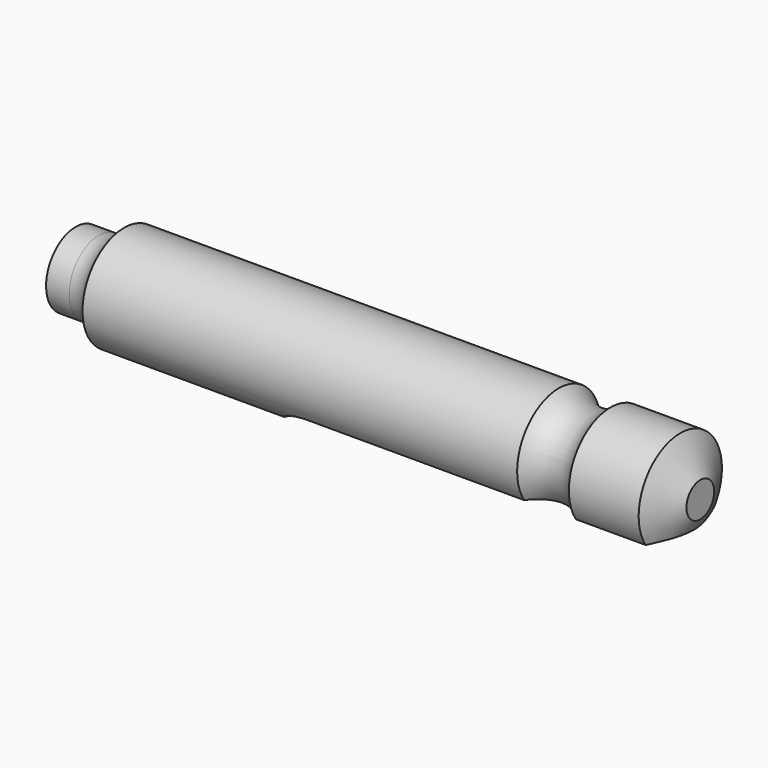
from build123d import *


with BuildPart() as f1:
    # F0 (on Front) → F1 (revolve)
    with BuildSketch(Plane.XZ):
        with BuildLine():
            Line((1, 0.85), (0, 0.85))
            Line((0, 0.85), (0, -0.75))
            Line((0, -0.75), (27, -0.75))
            Line((27, -0.75), (27, 0))
            Line((27, 0), (26.1339745962, 1.5))
            Line((26.1339745962, 1.5), (23.1180339887, 1.5))
            ThreePointArc((23.1180339887, 1.5), (22, 1), (20.8819660113, 1.5))
            Line((20.8819660113, 1.5), (2.09658561, 1.5))
            ThreePointArc((2.09658561, 1.5), (1.6373774392, 1.0247093416), (1, 0.85))
        make_face()
    revolve(axis=Axis((13.5, 0, -0.75), (-1, 0, 0)))

    # F5: sweep along a path in F4
    with BuildLine(Plane.XZ) as f5_path:
        Line((27, -2), (11.5, -2))
        ThreePointArc((11.5, -2), (10.4339207347, -2.2837767539), (9.65, -3.06))
    # F3 (on offset) → F5 (sweep, cut)
    with BuildSketch(Plane.YZ.offset(27)):
        Polygon((2.380318353, -2), (0, -2), (-2.619681647, -2), (-2.619681647, -3), (2.380318353, -3), align=None)
    sweep(path=f5_path.line, mode=Mode.SUBTRACT)


solid = f1.part
